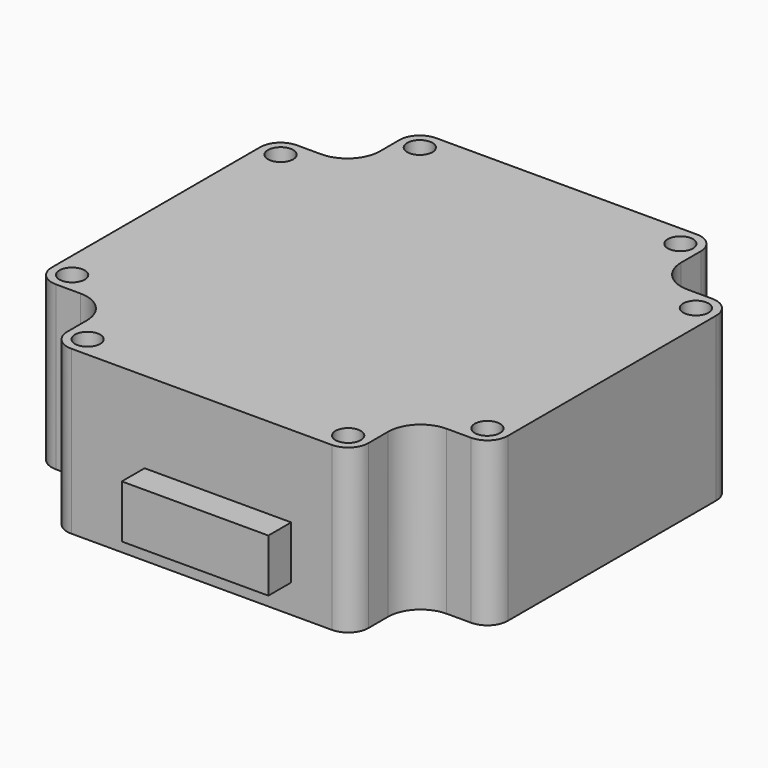
from build123d import *

# Parameters (mm, degrees)
SKETCH_R              = 1.55
PAD_DEPTH             = 20
POLARPATTERN012_COUNT = 4
FILLET004_R           = 4
FILLET005_R           = 2.5
SKETCH019_W           = 18
SKETCH019_H           = 6.5
PAD012_DEPTH          = 31.5


with BuildPart() as part:
    # Sketch → Pad (new body)
    with BuildSketch(Plane.XY):
        Polygon((-28, 0), (-28, 18.5), (-18.5, 18.5), (-18.5, 28), (0, 28), (0, 0), align=None)
        with Locations((-16, 25.5)):
            Circle(SKETCH_R, mode=Mode.SUBTRACT)
        with Locations((-25.5, 16)):
            Circle(SKETCH_R, mode=Mode.SUBTRACT)
    pad = extrude(amount=PAD_DEPTH)

    # PolarPattern012: Pad ×4 about axis
    polarpattern012_axis = Axis((0, 0, 0), (0, 0, 1))
    for i in range(1, POLARPATTERN012_COUNT):
        add(pad.rotate(polarpattern012_axis, i * 360 / POLARPATTERN012_COUNT))

    # Fillet004
    fillet004_edges = [part.edges().sort_by_distance(p)[0] for p in [
        (-18.5, 18.5, 10),
        (18.5, -18.5, 10),
        (-18.5, -18.5, 10),
        (18.5, 18.5, 10),
    ]]
    fillet(fillet004_edges, radius=FILLET004_R)

    # Fillet005
    fillet005_edges = [part.edges().sort_by_distance(p)[0] for p in [
        (-28, -18.5, 10),
        (-18.5, -28, 10),
        (18.5, -28, 10),
        (28, -18.5, 10),
        (28, 18.5, 10),
        (18.5, 28, 10),
        (-18.5, 28, 10),
        (-28, 18.5, 10),
    ]]
    fillet(fillet005_edges, radius=FILLET005_R)

    # Sketch019 → Pad012 (join)
    with BuildSketch(Plane.XZ):
        with Locations((2, 6.75)):
            Rectangle(SKETCH019_W, SKETCH019_H)
    extrude(amount=PAD012_DEPTH)


solid = part.part
